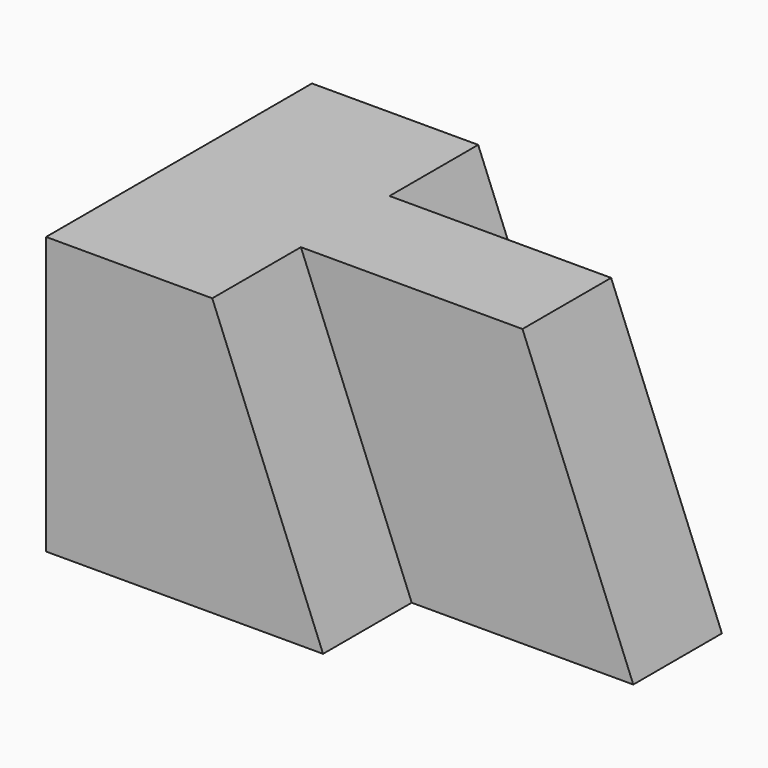
from build123d import *

# Parameters (mm, degrees)
F1_DEPTH = 38.1
F2_DEPTH = 12.7


with BuildPart() as f1:
    # F0 (on Front) → F1 (new body, symmetric)
    with BuildSketch(Plane.XZ):
        Polygon((6.35, -31.75), (-19.05, 31.75), (-57.15, 31.75), (-57.15, -31.75), align=None)
    extrude(amount=F1_DEPTH, both=True)

    # F0 (on Front) → F2 (join, symmetric)
    with BuildSketch(Plane.XZ):
        Polygon((31.75, 31.75), (-19.05, 31.75), (6.35, -31.75), (57.15, -31.75), align=None)
        Polygon((6.35, -31.75), (-19.05, 31.75), (-57.15, 31.75), (-57.15, -31.75), align=None)
    extrude(amount=F2_DEPTH, both=True)


solid = f1.part
